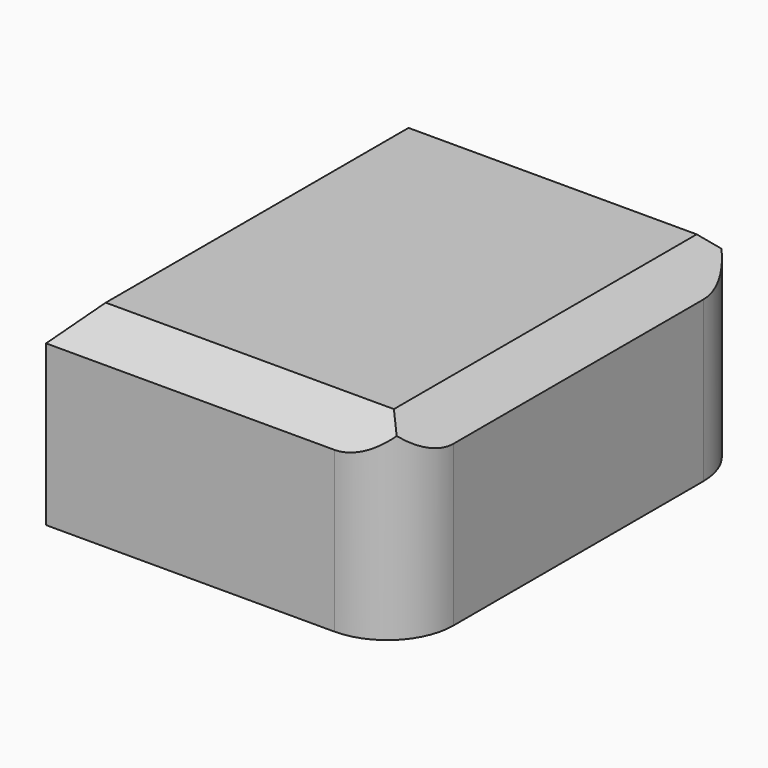
from build123d import *

# Parameters (mm, degrees)
F0_W     = 39.1064089628
F0_H     = 16.67773308
F1_DEPTH = 68.1895
F2_SIZE2 = 5.08
F2_SIZE  = 5.08
F3_R     = 10.16


with BuildPart() as f1:
    # F0 (on Front) → F1 (new body)
    with BuildSketch(Plane.XZ):
        with Locations((34.7932044814, 21.27848872)):
            Rectangle(F0_W, F0_H)
        Polygon((0, 29.6173552599), (0, 0), (54.3464089628, 0), (54.3464089628, 12.93962218), (15.24, 12.93962218), (15.24, 29.6173552599), align=None)
    extrude(amount=F1_DEPTH)

    # F2
    f2_edges = [f1.edges().sort_by_distance(p)[0] for p in [
        (54.346409, -34.09475, 29.617355),
        (27.173204, 0, 29.617355),
        (0, -34.09475, 29.617355),
        (27.173204, -68.1895, 29.617355),
    ]]
    chamfer(f2_edges, length=F2_SIZE, length2=F2_SIZE2)

    # F3
    f3_edges = [f1.edges().sort_by_distance(p)[0] for p in [
        (54.346409, 0, 12.268678),
        (54.346409, -68.1895, 12.268678),
    ]]
    fillet(f3_edges, radius=F3_R)


solid = f1.part
